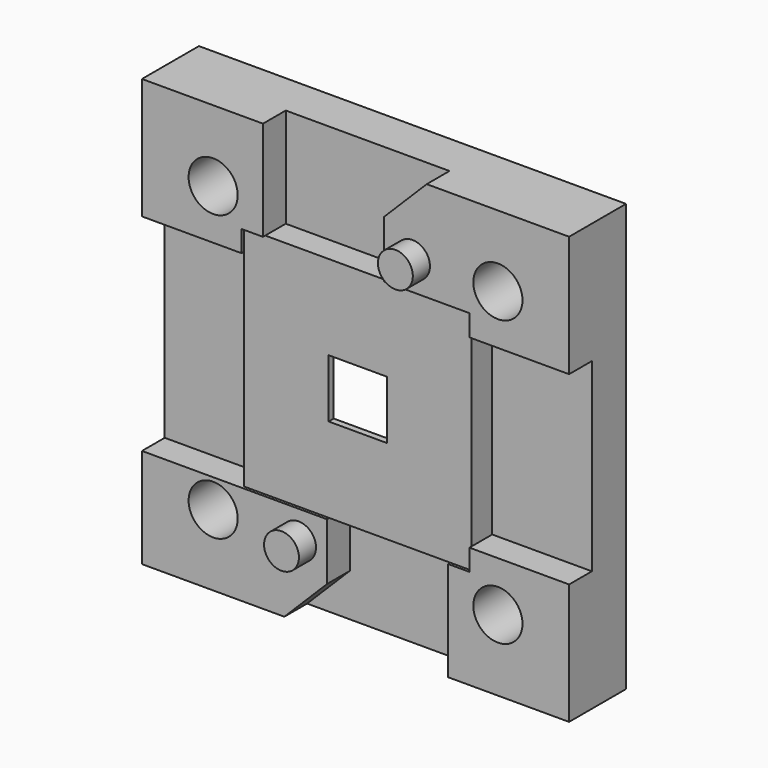
from build123d import *

# Parameters (mm, degrees)
SKETCH_W        = 30
SKETCH_H        = 30
PAD_DEPTH       = 5
SKETCH001_W     = 7
SKETCH001_H     = 23
SKETCH001_W_2   = 23
SKETCH001_H_2   = 7
SKETCH001_H_3   = 16
SKETCH001_W_3   = 30
POCKET_DEPTH    = 2
SKETCH002_W     = 13
SKETCH002_H     = 7
PAD001_DEPTH    = 2
SKETCH003_R     = 1.725
POCKET001_DEPTH = 5.001
SKETCH004_R     = 1.225
PAD002_DEPTH    = 1.5
SKETCH005_W     = 7
SKETCH005_H     = 2
PAD003_DEPTH    = 1.5
SKETCH006_W     = 4.1
SKETCH006_H     = 4.1
POCKET002_DEPTH = 5
PAD004_DEPTH    = 2
SKETCH008_R     = 1.725
POCKET003_DEPTH = 5.001
PAD005_DEPTH    = 2
SKETCH010_R     = 1.725
POCKET004_DEPTH = 5.001
POCKET005_DEPTH = 2
SKETCH012_W     = 13
SKETCH012_H     = 7
PAD006_DEPTH    = 2
SKETCH013_R     = 1.725
POCKET006_DEPTH = 5.001
SKETCH014_R     = 1.225
PAD007_DEPTH    = 1.5
POCKET007_DEPTH = 2
SKETCH016_W     = 12
SKETCH016_H     = 12
POCKET008_DEPTH = 4.35
SKETCH017_W     = 16
SKETCH017_H     = 16
POCKET009_DEPTH = 0.2


with BuildPart() as part:
    # Sketch → Pad (new body)
    with BuildSketch(Plane.XZ):
        Rectangle(SKETCH_W, SKETCH_H)
    extrude(amount=-PAD_DEPTH)

    # Sketch001 (on Face5 of Pad) → Pocket (cut)
    with BuildSketch(Plane.XZ):
        with Locations((-11.5, 3.5)):
            Rectangle(SKETCH001_W, SKETCH001_H)
        with Locations((3.5, 11.5)):
            Rectangle(SKETCH001_W_2, SKETCH001_H_2)
        with Locations((11.5, 0)):
            Rectangle(SKETCH001_W, SKETCH001_H_3)
        with Locations((0, -11.5)):
            Rectangle(SKETCH001_W_3, SKETCH001_H_2)
    extrude(amount=-POCKET_DEPTH, mode=Mode.SUBTRACT)

    # Sketch002 (on Face2 of Pocket) → Pad001 (join)
    with BuildSketch(Plane.XZ.offset(-2)):
        with Locations((8.5, 11.5)):
            Rectangle(SKETCH002_W, SKETCH002_H)
    extrude(amount=PAD001_DEPTH)

    # Sketch003 (on Face15 of Pad001) → Pocket001 (cut, through all)
    with BuildSketch(Plane.XZ):
        with Locations((10, 10)):
            Circle(SKETCH003_R)
    extrude(amount=-POCKET001_DEPTH, mode=Mode.SUBTRACT)

    # Sketch004 (on Face15 of Pocket001) → Pad002 (join)
    with BuildSketch(Plane.XZ):
        with Locations((4, 10)):
            Circle(SKETCH004_R)
    extrude(amount=PAD002_DEPTH)

    # Sketch005 (on Face7 of Pad002) → Pad003 (join)
    with BuildSketch(Plane(origin=(0, 0, 8), x_dir=(1, 0, 0), z_dir=(0, 0, -1))):
        with Locations((11.5, -1)):
            Rectangle(SKETCH005_W, SKETCH005_H)
    extrude(amount=PAD003_DEPTH)

    # Sketch006 (on Face5 of Pad003) → Pocket002 (cut)
    with BuildSketch(Plane(origin=(0, 5, 0), x_dir=(1, 0, 0), z_dir=(0, 1, 0))):
        Rectangle(SKETCH006_W, SKETCH006_H)
    extrude(amount=-POCKET002_DEPTH, mode=Mode.SUBTRACT)

    # Sketch007 (on Face2 of Pocket002) → Pad004 (join)
    with BuildSketch(Plane.XZ.offset(-2)):
        Polygon((6.5, -15), (15, -15), (15, -6.5), (8, -6.5), (8, -8), (6.5, -8), align=None)
    extrude(amount=PAD004_DEPTH)

    # Sketch008 (on Face24 of Pad004) → Pocket003 (cut, through all)
    with BuildSketch(Plane.XZ):
        with Locations((10, -10)):
            Circle(SKETCH008_R)
    extrude(amount=-POCKET003_DEPTH, mode=Mode.SUBTRACT)

    # Sketch009 (on Face2 of Pocket003) → Pad005 (join)
    with BuildSketch(Plane.XZ.offset(-2)):
        Polygon((-15, 15), (-6.5, 15), (-6.5, 8), (-8, 8), (-8, 6.5), (-15, 6.5), align=None)
    extrude(amount=PAD005_DEPTH)

    # Sketch010 (on Face10 of Pad005) → Pocket004 (cut, through all)
    with BuildSketch(Plane.XZ):
        with Locations((-10, 10)):
            Circle(SKETCH010_R)
    extrude(amount=-POCKET004_DEPTH, mode=Mode.SUBTRACT)

    # Sketch011 (on Face14 of Pocket004) → Pocket005 (cut)
    with BuildSketch(Plane.XZ):
        Polygon((2, 15), (2, 12), (5, 15), align=None)
    extrude(amount=-POCKET005_DEPTH, mode=Mode.SUBTRACT)

    # Sketch012 (on Face28 of Pocket005) → Pad006 (join)
    with BuildSketch(Plane.XZ.offset(-2)):
        with Locations((-8.5, -11.5)):
            Rectangle(SKETCH012_W, SKETCH012_H)
    extrude(amount=PAD006_DEPTH)

    # Sketch013 (on Face42 of Pad006) → Pocket006 (cut, through all)
    with BuildSketch(Plane.XZ):
        with Locations((-10, -10)):
            Circle(SKETCH013_R)
    extrude(amount=-POCKET006_DEPTH, mode=Mode.SUBTRACT)

    # Sketch014 (on Face42 of Pocket006) → Pad007 (join)
    with BuildSketch(Plane.XZ):
        with Locations((-4, -10)):
            Circle(SKETCH014_R)
    extrude(amount=PAD007_DEPTH)

    # Sketch015 (on Face42 of Pad007) → Pocket007 (cut)
    with BuildSketch(Plane.XZ):
        Polygon((-2, -15), (-2, -12), (-5, -15), align=None)
    extrude(amount=-POCKET007_DEPTH, mode=Mode.SUBTRACT)

    # Sketch016 (on Face7 of Pocket007) → Pocket008 (cut)
    with BuildSketch(Plane(origin=(0, 5, 0), x_dir=(1, 0, 0), z_dir=(0, 1, 0))):
        Rectangle(SKETCH016_W, SKETCH016_H)
    extrude(amount=-POCKET008_DEPTH, mode=Mode.SUBTRACT)

    # Sketch017 (on Face32 of Pocket008) → Pocket009 (cut)
    with BuildSketch(Plane.XZ):
        Rectangle(SKETCH017_W, SKETCH017_H)
    extrude(amount=-POCKET009_DEPTH, mode=Mode.SUBTRACT)


solid = part.part
